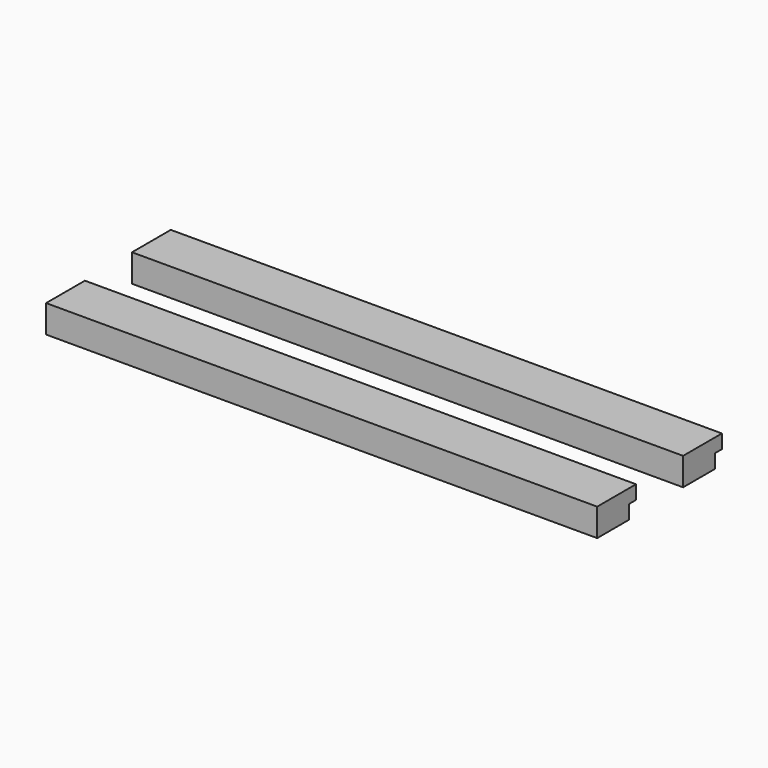
from build123d import *

# Parameters (mm, degrees)
F0_W     = 7.9375
F0_H     = 12.7
F1_DEPTH = 504.825


with BuildPart() as f1:
    # F0 (on Right) → F1 (new body)
    with BuildSketch(Plane.YZ):
        Polygon((-61.853523, 30.252873), (-98.366023, 30.252873), (-98.366023, 4.852873), (-61.853523, 4.852873), (-61.853523, 17.552873), align=None)
        with Locations((-57.884773, 23.902873)):
            Rectangle(F0_W, F0_H)
        Polygon((36.5125, 31.242001), (0, 31.242001), (0, 5.842001), (36.5125, 5.842001), (36.5125, 18.542001), align=None)
        with Locations((40.48125, 24.892001)):
            Rectangle(F0_W, F0_H)
    extrude(amount=F1_DEPTH)


solid = f1.part
